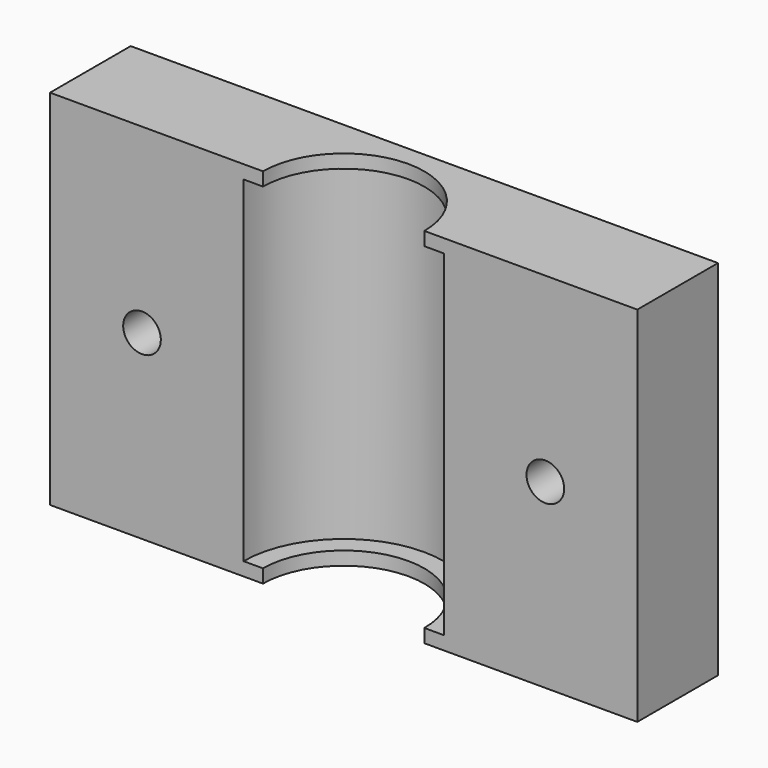
from build123d import *

# Parameters (mm, degrees)
SKETCH006_R  = 1.4
PAD004_DEPTH = 7.5
PAD005_DEPTH = 1
PAD_DEPTH    = 1
PAD006_DEPTH = 27


with BuildPart() as mount:
    # Sketch006 → Pad004 (new body)
    with BuildSketch(Plane.XZ):
        with Locations((-15, 13.5)):
            Circle(SKETCH006_R)
        with Locations((15, 13.5)):
            Circle(SKETCH006_R)
    extrude(amount=-PAD004_DEPTH)


with BuildPart() as toplip:
    # Sketch005 → Pad005 (new body)
    with BuildSketch(Plane.XY.offset(26)):
        with BuildLine():
            ThreePointArc((7.46, 0), (0, 7.46), (-7.46, 0))
            Line((-7.46, 0), (-6, 0))
            ThreePointArc((6, 0), (0, 6), (-6, 0))
            Line((7.46, 0), (6, 0))
        make_face()
    extrude(amount=PAD005_DEPTH)


with BuildPart() as bottomlip:
    # Sketch003 → Pad (new body)
    with BuildSketch(Plane.XY):
        with BuildLine():
            ThreePointArc((7.46, 0), (0, 7.46), (-7.46, 0))
            Line((-7.46, 0), (-6, 0))
            ThreePointArc((6, 0), (0, 6), (-6, 0))
            Line((7.46, 0), (6, 0))
        make_face()
    extrude(amount=PAD_DEPTH)


with BuildPart() as final:
    # Sketch → Pad006 (new body)
    with BuildSketch(Plane.XY):
        with BuildLine():
            ThreePointArc((7.45, 0), (0, 7.45), (-7.45, 0))
            Line((-7.45, 0), (-21.8427, 0))
            Line((-21.8427, 0), (-21.8427, 7.5))
            Line((-21.8427, 7.5), (21.8427, 7.5))
            Line((21.8427, 0), (21.8427, 7.5))
            Line((7.45, 0), (21.8427, 0))
        make_face()
    extrude(amount=PAD006_DEPTH)

    # Fusion: union TopLip, BottomLip
    add(toplip.part)
    add(bottomlip.part)

    # Cut: cut Mount
    add(mount.part, mode=Mode.SUBTRACT)


solid = final.part
